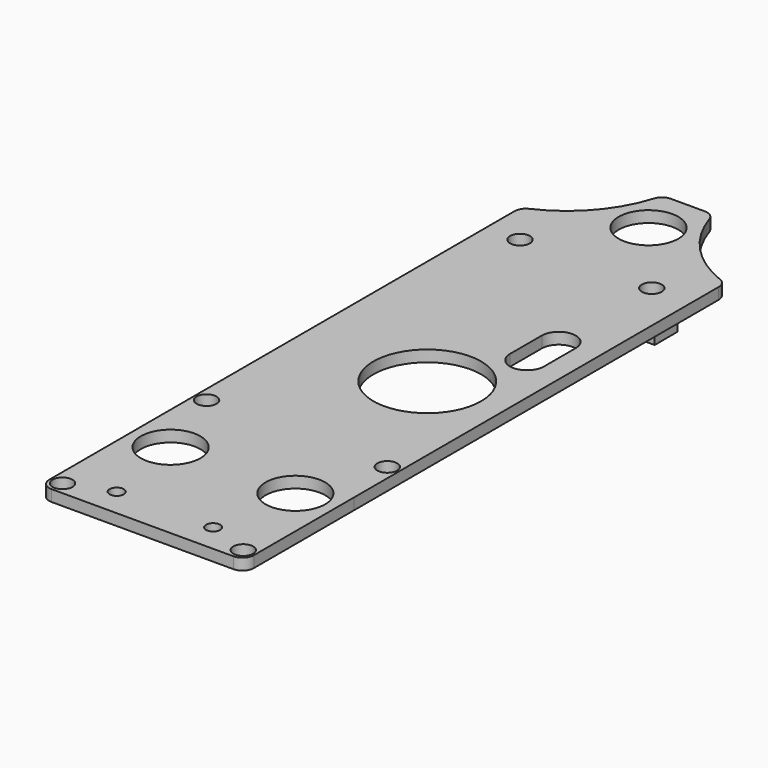
from build123d import *

# Parameters (mm, degrees)
F0_R     = 1.75
F0_R_2   = 5.25
F0_R_3   = 1.25
F0_R_4   = 9.5
F0_W     = 5
F0_H     = 5
F1_DEPTH = 2
F2_DEPTH = 5
F3_R     = 2


with BuildPart() as f1:
    # F0 (on Top) → F1 (new body)
    with BuildSketch(Plane.XY):
        Polygon((-28.790083, 65.219305), (-28.796145, -14.780695), (-28.796145, -16.571802), (-28.796145, -40.655049), (7.273224, -40.649858), (7.273224, -16.567812), (7.279287, 65.219305), (5.209917, 65.219305), align=None)
        with Locations((-26.696145, -38.354747)):
            Circle(F0_R, mode=Mode.SUBTRACT)
        with Locations((-21.796145, -20.655049)):
            Circle(F0_R_2, mode=Mode.SUBTRACT)
        with Locations((-19.296145, -35.655049)):
            Circle(F0_R_3, mode=Mode.SUBTRACT)
        with Locations((-26.696145, -6.604747)):
            Circle(F0_R, mode=Mode.SUBTRACT)
        with Locations((-2.296145, -35.655049)):
            Circle(F0_R_3, mode=Mode.SUBTRACT)
        with Locations((5.173224, -38.354747)):
            Circle(F0_R, mode=Mode.SUBTRACT)
        with Locations((0.203855, -20.655049)):
            Circle(F0_R_2, mode=Mode.SUBTRACT)
        with Locations((-6.476738, 16.763415)):
            Circle(F0_R_4, mode=Mode.SUBTRACT)
        with Locations((5.173224, -6.604747)):
            Circle(F0_R, mode=Mode.SUBTRACT)
        with Locations((-22.890444, 57.719305)):
            Rectangle(F0_W, F0_H, mode=Mode.SUBTRACT)
        with BuildLine():
            ThreePointArc((-2.690486, 37.263415), (0.309514, 40.263415), (3.309514, 37.263415))
            Line((3.309514, 37.263415), (3.309514, 30.263415))
            ThreePointArc((3.309514, 30.263415), (0.309514, 27.263415), (-2.690486, 30.263415))
            Line((-2.690486, 30.263415), (-2.690486, 37.263415))
        make_face(mode=Mode.SUBTRACT)
        Polygon((-2.180962, 55.253926), (-2.199975, 60.25389), (2.799989, 60.272903), (2.819002, 55.272939), align=None, mode=Mode.SUBTRACT)
        with Locations((-22.890444, 57.719305)):
            Rectangle(F0_W, F0_H)
        with Locations((-22.890444, 57.719305)):
            Circle(F0_R, mode=Mode.SUBTRACT)
        Polygon((2.799989, 60.272903), (-2.199975, 60.25389), (-2.180962, 55.253926), (2.819002, 55.272939), align=None)
        with Locations((0.309514, 57.763415)):
            Circle(F0_R, mode=Mode.SUBTRACT)
        with BuildLine():
            ThreePointArc((-15.790083, 80.219305), (-20.42596, 71.103733), (-28.790083, 65.219305))
            Line((-28.790083, 65.219305), (5.209917, 65.219305))
            Line((5.209917, 65.219305), (7.279287, 65.219305))
            ThreePointArc((7.279287, 65.219305), (-1.691726, 70.903111), (-6.790083, 80.219305))
            Line((-6.790083, 80.219305), (-15.790083, 80.219305))
        make_face()
        with Locations((-11.290083, 71.546383)):
            Circle(F0_R_2, mode=Mode.SUBTRACT)
    extrude(amount=F1_DEPTH)

    # F0 (on Top) → F2 (join)
    with BuildSketch(Plane.XY):
        Polygon((2.799989, 60.272903), (-2.199975, 60.25389), (-2.180962, 55.253926), (2.819002, 55.272939), align=None)
        with Locations((0.309514, 57.763415)):
            Circle(F0_R, mode=Mode.SUBTRACT)
        with Locations((-22.890444, 57.719305)):
            Rectangle(F0_W, F0_H)
        with Locations((-22.890444, 57.719305)):
            Circle(F0_R, mode=Mode.SUBTRACT)
    extrude(amount=-F2_DEPTH)

    # F3
    f3_edges = [f1.edges().sort_by_distance(p)[0] for p in [
        (-28.790083, 65.219305, 1),
        (7.279287, 65.219305, 1),
        (7.273224, -40.649858, 1),
        (-28.796145, -40.655049, 1),
        (-15.790083, 80.219305, 1),
        (-6.790083, 80.219305, 1),
    ]]
    fillet(f3_edges, radius=F3_R)


solid = f1.part
